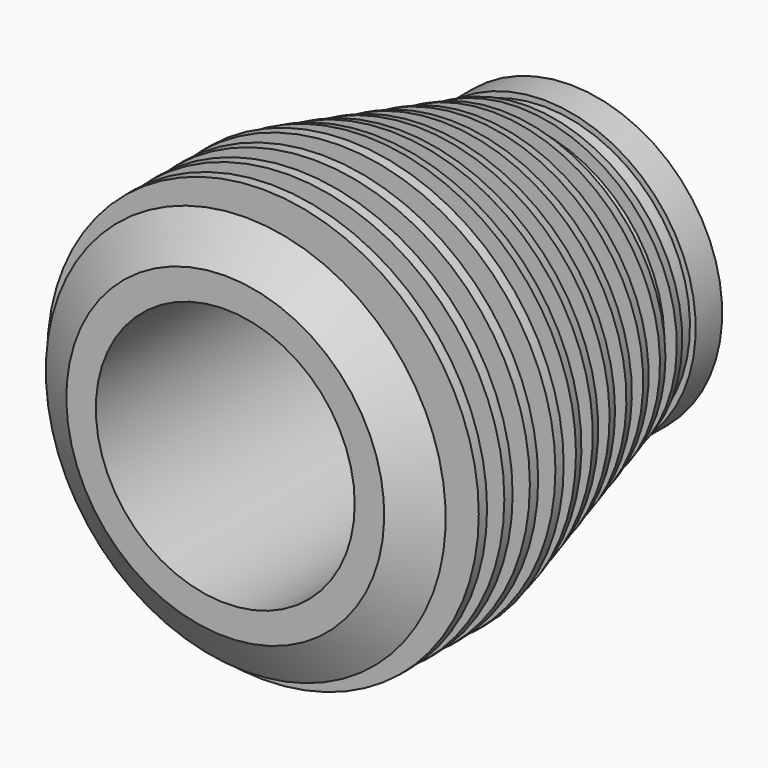
from build123d import *

# Parameters (mm, degrees)
F0_R     = 63.5
F0_R_2   = 38.1
F1_DEPTH = 127
F2_W     = 6.35
F2_H     = 40.64


with BuildPart() as f1:
    # F0 (on Front) → F1 (new body)
    with BuildSketch(Plane.XZ):
        Circle(F0_R)
        Circle(F0_R_2, mode=Mode.SUBTRACT)
    extrude(amount=F1_DEPTH)

    # F2 (on Right) → F3 (revolve, cut)
    with BuildSketch(Plane.YZ):
        with Locations((-12.907625, 63.279698)):
            Rectangle(F2_W, F2_H)
        with Locations((-22.305625, 63.279698)):
            Rectangle(F2_W, F2_H)
        with Locations((-31.703625, 63.279698)):
            Rectangle(F2_W, F2_H)
        with Locations((-41.101625, 63.279698)):
            Rectangle(F2_W, F2_H)
        with Locations((-50.499625, 63.279698)):
            Rectangle(F2_W, F2_H)
        with Locations((-59.897625, 63.279698)):
            Rectangle(F2_W, F2_H)
        with Locations((-69.295625, 63.279698)):
            Rectangle(F2_W, F2_H)
        with Locations((-78.693625, 63.279698)):
            Rectangle(F2_W, F2_H)
        with Locations((-88.091625, 63.279698)):
            Rectangle(F2_W, F2_H)
        with Locations((-97.489625, 63.279698)):
            Rectangle(F2_W, F2_H)
        with Locations((-106.887625, 63.279698)):
            Rectangle(F2_W, F2_H)
        with Locations((-116.285625, 63.279698)):
            Rectangle(F2_W, F2_H)
    revolve(axis=Axis((0, 0, 0), (0, -1, 0)), mode=Mode.SUBTRACT)

    # F4 (on Right) → F5 (revolve, cut)
    with BuildSketch(Plane.YZ):
        Polygon((-137.784824, 68.600371), (-132.080004, 38.650107), (-114.965566, 66.033214), (-90.149626, 66.033214), (-11.993693, 44.640161), (6.54695, 44.640161), (6.54695, 68.600371), align=None)
    revolve(axis=Axis((0, -127, 0), (0, -1, 0)), mode=Mode.SUBTRACT)


solid = f1.part
